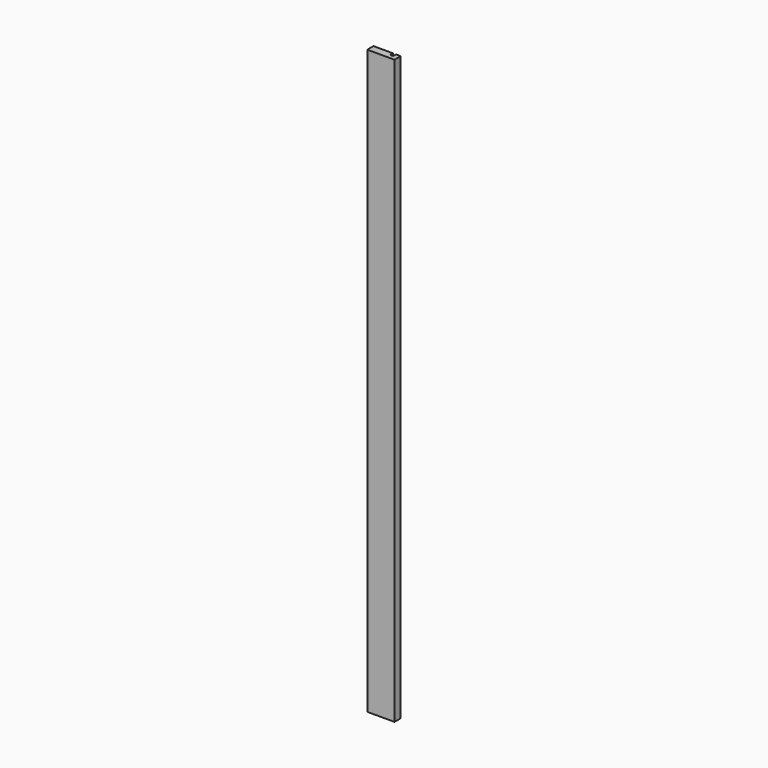
from build123d import *

# Parameters (mm, degrees)
F0_W     = 70
F0_H     = 1500
F1_DEPTH = 20
F2_W     = 8
F2_H     = 1500
F3_DEPTH = 9


with BuildPart() as f1:
    # F0 (on Front) → F1 (new body)
    with BuildSketch(Plane.XZ):
        with Locations((-58.125427, 524.716102)):
            Rectangle(F0_W, F0_H)
    extrude(amount=-F1_DEPTH)

    # F2 (on face) → F3 (cut)
    with BuildSketch(Plane(origin=(0, 20, 0), x_dir=(-1, 0, 0), z_dir=(0, 1, 0))):
        with Locations((39.125427, 524.716102)):
            Rectangle(F2_W, F2_H)
    extrude(amount=-F3_DEPTH, mode=Mode.SUBTRACT)


solid = f1.part
